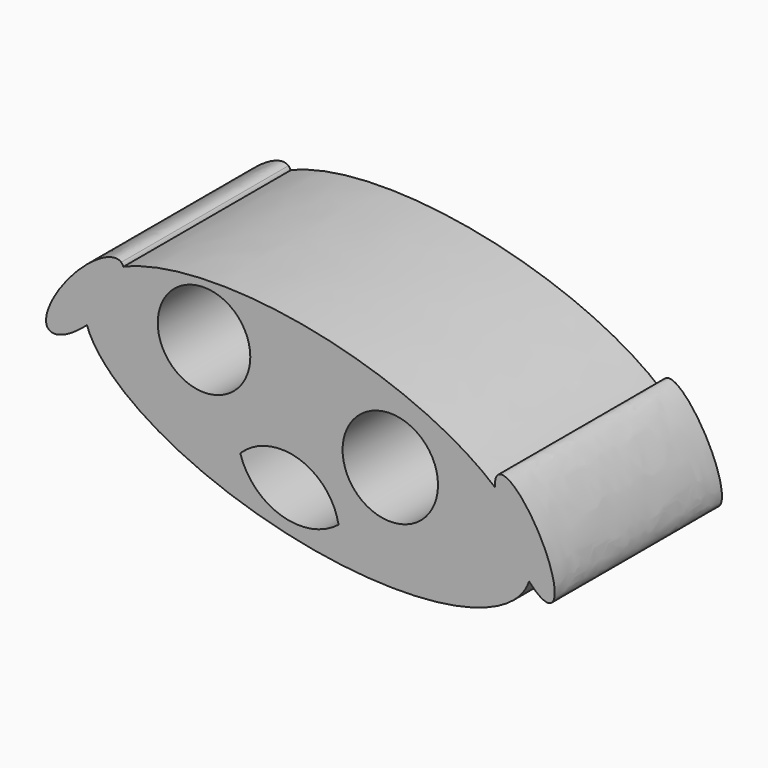
from build123d import *

# Parameters (mm, degrees)
F0_R     = 5.623821154
F0_R_2   = 5.7969004421
F1_DEPTH = 25.4


with BuildPart() as f1:
    # F0 (on Front) → F1 (new body)
    with BuildSketch(Plane.XZ):
        with BuildLine():
            add(Edge.make_bspline(
                [(0.513953933, 33.7009599132), (0.5806385314, 33.9034228433), (0.6287617143, 34.110352397)],
                knots=[6.2460954795, 6.2460954795, 6.2460954795, 6.2831853072, 6.2831853072, 6.2831853072], degree=2, weights=[1, 0.999828048, 1]))
            add(Edge.make_bspline(
                [(0.6287617143, 34.110352397), (1.5336829013, 38.0015110013), (-3.6216792375, 42.4124403142)],
                knots=[0, 0, 0, 0.6711456646, 0.6711456646, 0.6711456646], degree=2, weights=[1, 0.9442218251, 1]))
            add(Edge.make_bspline(
                [(-3.6216792375, 42.4124403142), (-3.3582820184, 38.0223684233), (0.513953933, 33.7009599132)],
                knots=[3.7324633472, 3.7324633472, 3.7324633472, 5.3779376636, 5.3779376636, 5.3779376636], degree=2, weights=[1, 0.6802173924, 1]))
        make_face()
        with BuildLine():
            add(Edge.make_bspline(
                [(0.6287617143, 34.110352397), (1.5336829013, 38.0015110013), (-3.6216792375, 42.4124403142)],
                knots=[0, 0, 0, 0.6711456646, 0.6711456646, 0.6711456646], degree=2, weights=[1, 0.9442218251, 1]))
            add(Edge.make_bspline(
                [(0.513953933, 33.7009599132), (0.5806385314, 33.9034228433), (0.6287617143, 34.110352397)],
                knots=[6.2460954795, 6.2460954795, 6.2460954795, 6.2831853072, 6.2831853072, 6.2831853072], degree=2, weights=[1, 0.999828048, 1]))
            add(Edge.make_bspline(
                [(0.513953933, 33.7009599132), (2.261382433, 31.750832781), (3.1438113656, 32.2240665555)],
                knots=[5.3779376636, 5.3779376636, 5.3779376636, 6.2831853072, 6.2831853072, 6.2831853072], degree=2, weights=[1, 0.8993027321, 1]))
            add(Edge.make_bspline(
                [(3.1438113656, 32.2240665555), (5.5928402598, 33.5374450552), (0.8206378635, 40.7240608556), (-3.9515645328, 47.910676656), (-3.6216792375, 42.4124403142)],
                knots=[0, 0, 0, 1.8662316736, 1.8662316736, 3.7324633472, 3.7324633472, 3.7324633472], degree=2, weights=[1, 0.5953333674, 1, 0.5953333674, 1]))
        make_face()
        with BuildLine():
            add(Edge.make_bspline(
                [(-3.6216792375, 42.4124403142), (-3.3582820184, 38.0223684233), (0.513953933, 33.7009599132)],
                knots=[3.7324633472, 3.7324633472, 3.7324633472, 5.3779376636, 5.3779376636, 5.3779376636], degree=2, weights=[1, 0.6802173924, 1]))
            add(Edge.make_bspline(
                [(-3.6216792375, 42.4124403142), (-25.7463495836, 61.3423145573), (-48.7859496914, 51.3111059467)],
                knots=[0.6711456646, 0.6711456646, 0.6711456646, 2.6347288015, 2.6347288015, 2.6347288015], degree=2, weights=[1, 0.5555337607, 1]))
            add(Edge.make_bspline(
                [(-53.2142940351, 43.6374274334), (-47.8590594627, 48.487584817), (-48.7859496914, 51.3111059467)],
                knots=[4.3861264922, 4.3861264922, 4.3861264922, 6.08192085, 6.08192085, 6.08192085], degree=2, weights=[1, 0.6615614938, 1]))
            add(Edge.make_bspline(
                [(-53.2142940351, 43.6374274334), (-49.440208617, 32.9496682343), (-26.0138220852, 28.617207421), (-2.5874355533, 24.2847466077), (0.513953933, 33.7009599132)],
                knots=[3.3990592992, 3.3990592992, 3.3990592992, 4.8225773894, 4.8225773894, 6.2460954795, 6.2460954795, 6.2460954795], degree=2, weights=[1, 0.7572140983, 1, 0.7572140983, 1]))
        make_face()
        with BuildLine():
            ThreePointArc((-34.58192572, 35.9966419637), (-27.472985966, 37.7067308537), (-22.6354431361, 32.2240665555))
            ThreePointArc((-22.6354431361, 32.2240665555), (-29.6073079103, 30.9480482094), (-34.58192572, 35.9966419637))
        make_face(mode=Mode.SUBTRACT)
        with Locations((-38.9832630754, 46.6855987906)):
            Circle(F0_R, mode=Mode.SUBTRACT)
        with Locations((-16.3478180766, 40.3979793191)):
            Circle(F0_R_2, mode=Mode.SUBTRACT)
        with BuildLine():
            add(Edge.make_bspline(
                [(-53.2142940351, 43.6374274334), (-47.8590594627, 48.487584817), (-48.7859496914, 51.3111059467)],
                knots=[4.3861264922, 4.3861264922, 4.3861264922, 6.08192085, 6.08192085, 6.08192085], degree=2, weights=[1, 0.6615614938, 1]))
            add(Edge.make_bspline(
                [(-48.7859496914, 51.3111059467), (-54.9728329452, 48.6173996203), (-53.2142940351, 43.6374274334)],
                knots=[2.6347288015, 2.6347288015, 2.6347288015, 3.3990592992, 3.3990592992, 3.3990592992], degree=2, weights=[1, 0.9278593242, 1]))
        make_face()
        with BuildLine():
            add(Edge.make_bspline(
                [(-48.7859496914, 51.3111059467), (-54.9728329452, 48.6173996203), (-53.2142940351, 43.6374274334)],
                knots=[2.6347288015, 2.6347288015, 2.6347288015, 3.3990592992, 3.3990592992, 3.3990592992], degree=2, weights=[1, 0.9278593242, 1]))
            add(Edge.make_bspline(
                [(-48.7859496914, 51.3111059467), (-48.8685167863, 51.5626243357), (-49.0434579551, 51.7156980932)],
                knots=[6.08192085, 6.08192085, 6.08192085, 6.2831853072, 6.2831853072, 6.2831853072], degree=2, weights=[1, 0.9949408489, 1]))
            add(Edge.make_bspline(
                [(-49.0434579551, 51.7156980932), (-52.4184912193, 54.6688567297), (-57.4180389624, 44.9854985082), (-62.4175867056, 35.3021402867), (-53.2142940351, 43.6374274334)],
                knots=[0, 0, 0, 2.1930632461, 2.1930632461, 4.3861264922, 4.3861264922, 4.3861264922], degree=2, weights=[1, 0.45668443, 1, 0.45668443, 1]))
        make_face()
    extrude(amount=F1_DEPTH)


solid = f1.part
